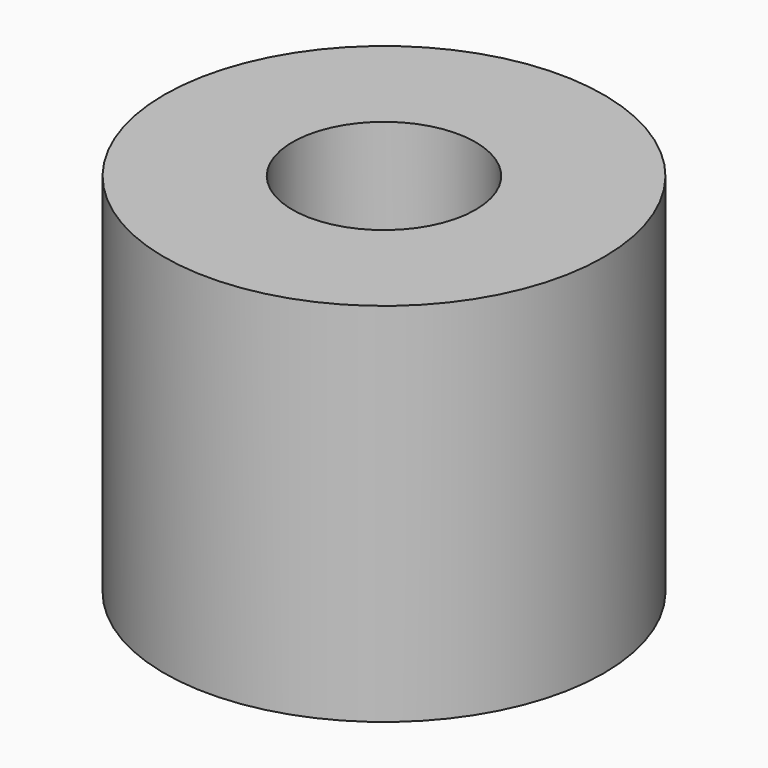
from build123d import *

# Parameters (mm, degrees)
SKETCH_R     = 3
PAD_DEPTH    = 5
SKETCH001_R  = 1.25
POCKET_DEPTH = 8


with BuildPart() as part:
    # Sketch → Pad (new body)
    with BuildSketch(Plane.XY):
        Circle(SKETCH_R)
    extrude(amount=PAD_DEPTH)

    # Sketch001 (on Face3 of Pad) → Pocket (cut)
    with BuildSketch(Plane.XY.offset(5)):
        Circle(SKETCH001_R)
    extrude(amount=-POCKET_DEPTH, mode=Mode.SUBTRACT)


solid = part.part
